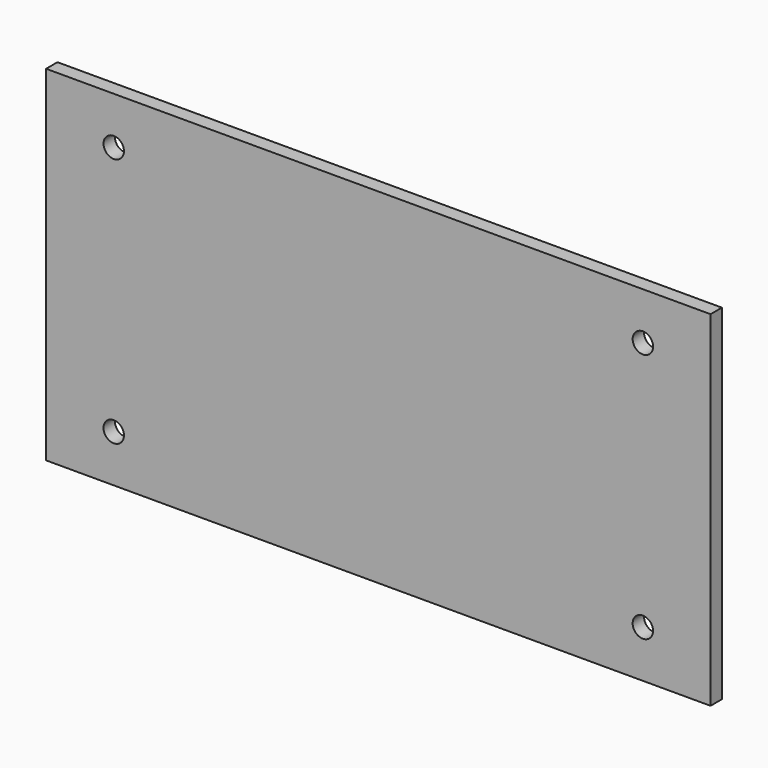
from build123d import *

# Parameters (mm, degrees)
F0_W     = 144.653
F0_H     = 75.057
F1_DEPTH = 3.0988
F2_R     = 2.2225
F3_DEPTH = 3.0988


with BuildPart() as f1:
    # F0 (on Front) → F1 (new body)
    with BuildSketch(Plane.XZ):
        Rectangle(F0_W, F0_H)
    extrude(amount=-F1_DEPTH)

    # F2 (on face) → F3 (cut, through all)
    with BuildSketch(Plane.XZ):
        with Locations((-57.5945, 27.2415)):
            Circle(F2_R)
        with Locations((-57.5945, -27.2415)):
            Circle(F2_R)
        with Locations((57.5945, -27.2415)):
            Circle(F2_R)
        with Locations((57.5945, 27.2415)):
            Circle(F2_R)
    extrude(amount=-F3_DEPTH, mode=Mode.SUBTRACT)


solid = f1.part
